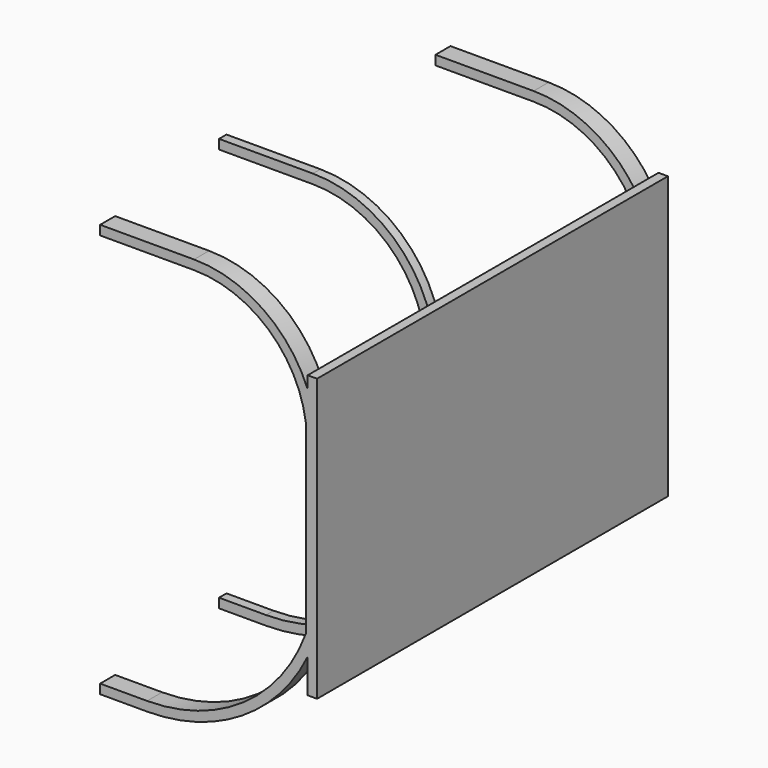
from build123d import *

# Parameters (mm, degrees)
F1_DEPTH = 1
F2_W     = 46.682928
F2_H     = 30
F3_DEPTH = 1
F5_DEPTH = 2
F7_DEPTH = 2


with BuildPart() as f1:
    # F0 (on Front) → F1 (new body)
    with BuildSketch(Plane.XZ):
        with BuildLine():
            Line((-63.739401, 25.876286), (-63.739401, 24.876286))
            Line((-63.739401, 24.876286), (-53.739401, 24.876286))
            ThreePointArc((-53.739401, 24.876286), (-45.845818, 21.914612), (-41.848604, 14.49151))
            Line((-41.848604, 14.49151), (-41.848604, -5.344726))
            ThreePointArc((-41.848604, -5.344726), (-48.443242, -13.888168), (-58.739401, -17.123714))
            Line((-58.739401, -17.123714), (-63.739401, -17.123714))
            Line((-63.739401, -17.123714), (-63.739401, -18.123714))
            Line((-63.739401, -18.123714), (-58.739401, -18.123714))
            ThreePointArc((-58.739401, -18.123714), (-47.797274, -14.656578), (-40.848604, -5.520541))
            Line((-40.848604, -5.520541), (-40.848604, 14.55776))
            ThreePointArc((-40.848604, 14.55776), (-45.162081, 22.645092), (-53.739401, 25.876286))
            Line((-53.739401, 25.876286), (-63.739401, 25.876286))
        make_face()
    extrude(amount=F1_DEPTH)

    # F2 (on face) → F3 (join)
    with BuildSketch(Plane.YZ.offset(-40.848604)):
        with Locations((5.529391, 3)):
            Rectangle(F2_W, F2_H)
    extrude(amount=F3_DEPTH)

    # F4 (on face) → F5 (join)
    with BuildSketch(Plane(origin=(0, 28.870855, 0), x_dir=(-1, 0, 0), z_dir=(0, 1, 0))):
        with BuildLine():
            Line((62.989129, 21.67293), (62.989129, 22.67293))
            Line((62.989129, 22.67293), (52.540804, 22.67293))
            ThreePointArc((52.540804, 22.67293), (44.763407, 20.089843), (40.076731, 13.367097))
            Line((40.076731, 13.367097), (40.076731, -6.663155))
            ThreePointArc((40.076731, -6.663155), (47.020666, -15.841348), (57.989129, -19.32707))
            Line((57.989129, -19.32707), (62.989129, -19.32707))
            Line((62.989129, -19.32707), (62.989129, -18.32707))
            Line((62.989129, -18.32707), (57.989129, -18.32707))
            ThreePointArc((57.989129, -18.32707), (47.667229, -15.073541), (41.076731, -6.489113))
            Line((41.076731, -6.489113), (41.076731, 13.219057))
            ThreePointArc((41.076731, 13.219057), (45.418779, 19.330919), (52.540804, 21.67293))
            Line((52.540804, 21.67293), (62.989129, 21.67293))
        make_face()
    extrude(amount=-F5_DEPTH)

    # F6 (on face) → F7 (join)
    with BuildSketch(Plane.XZ.offset(17.812073)):
        with BuildLine():
            Line((-62.944316, 24.917709), (-62.944316, 23.917709))
            Line((-62.944316, 23.917709), (-52.944316, 23.917709))
            ThreePointArc((-52.944316, 23.917709), (-45.050733, 20.956036), (-41.053519, 13.532934))
            Line((-41.053519, 13.532934), (-41.053519, -6.303302))
            ThreePointArc((-41.053519, -6.303302), (-47.648157, -14.846744), (-57.944316, -18.082291))
            Line((-57.944316, -18.082291), (-62.944316, -18.082291))
            Line((-62.944316, -18.082291), (-62.944316, -19.082291))
            Line((-62.944316, -19.082291), (-57.944316, -19.082291))
            ThreePointArc((-57.944316, -19.082291), (-47.002189, -15.615154), (-40.053519, -6.479117))
            Line((-40.053519, -6.479117), (-40.053519, 13.599184))
            ThreePointArc((-40.053519, 13.599184), (-44.366996, 21.686516), (-52.944316, 24.917709))
            Line((-52.944316, 24.917709), (-62.944316, 24.917709))
        make_face()
    extrude(amount=-F7_DEPTH)


solid = f1.part
